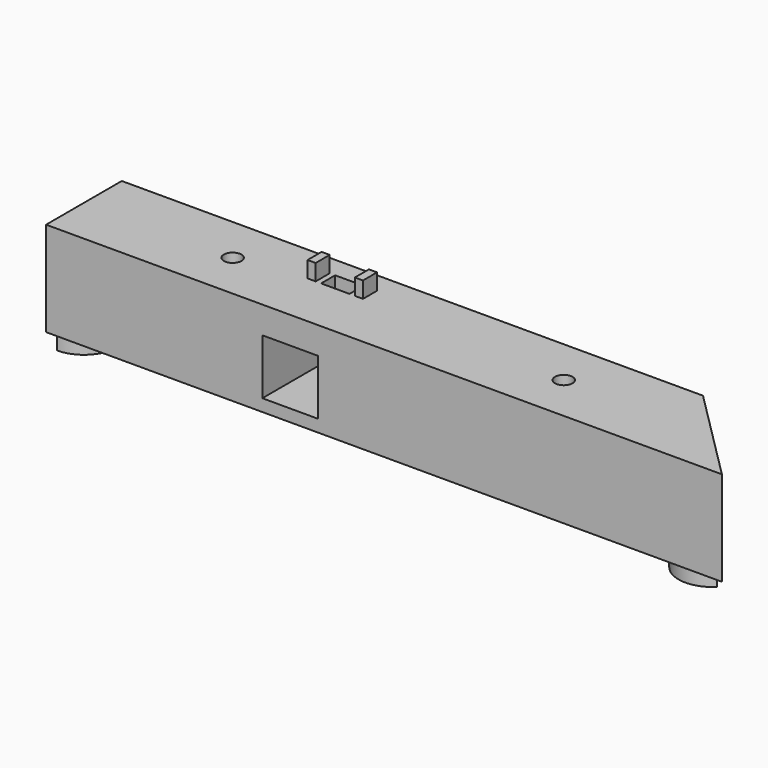
from build123d import *

# Parameters (mm, degrees)
F1_DEPTH  = 35
F2_W      = 24
F2_H      = 24
F3_DEPTH  = 25.5
F5_D      = 6.5
F5_DEPTH  = 35
F5_TIP    = 1.9527970118
F7_DEPTH  = 8
F9_DEPTH  = 8
F10_W     = 20.5
F10_H     = 20.5
F11_DEPTH = 100
F12_W     = 10.5
F12_H     = 6.5
F13_DEPTH = 34
F12_W_2   = 3
F14_DEPTH = 6


with BuildPart() as f1:
    # F0 (on Top) → F1 (new body)
    with BuildSketch(Plane.XY):
        Polygon((-125, -17.5), (125, -17.5), (90, 17.5), (-125, 17.5), align=None)
    extrude(amount=F1_DEPTH)

    # F2 (on face) → F3 (cut)
    with BuildSketch(Plane(origin=(-125, 0, 0), x_dir=(0, -1, 0), z_dir=(-1, 0, 0))):
        with Locations((0, 17.5)):
            Rectangle(F2_W, F2_H)
    extrude(amount=-F3_DEPTH, mode=Mode.SUBTRACT)

    # F5
    with Locations(Plane.XY.offset(35)):
        with Locations((52.5, 0), (-70, 0)):
            Hole(F5_D / 2, depth=F5_DEPTH)
            with Locations((0, 0, -(F5_DEPTH + F5_TIP / 2))):  # 118° drill point
                Cone(0, F5_D / 2, F5_TIP, mode=Mode.SUBTRACT)

    # F6 (on face) → F7 (join)
    with BuildSketch(Plane(origin=(0, 0, 0), x_dir=(1, 0, 0), z_dir=(0, 0, -1))):
        with BuildLine():
            Line((98.6611652352, -8.8388347648), (116.3388347648, 8.8388347648))
            ThreePointArc((116.3388347648, 8.8388347648), (98.6611652352, 8.8388347648), (98.6611652352, -8.8388347648))
        make_face()
    extrude(amount=F7_DEPTH)

    # F8 (on face) → F9 (join)
    with BuildSketch(Plane(origin=(0, 0, 0), x_dir=(1, 0, 0), z_dir=(0, 0, -1))):
        with BuildLine():
            ThreePointArc((-125, -12.5), (-116.1611652352, -8.8388347648), (-112.5, 0))
            ThreePointArc((-112.5, 0), (-116.1611652352, 8.8388347648), (-125, 12.5))
            Line((-125, 12.5), (-125, -12.5))
        make_face()
    extrude(amount=F9_DEPTH)

    # F10 (on face) → F11 (cut)
    with BuildSketch(Plane(origin=(0, 17.5, 0), x_dir=(-1, 0, 0), z_dir=(0, 1, 0))):
        with Locations((34.75, 14.75)):
            Rectangle(F10_W, F10_H)
    extrude(amount=-F11_DEPTH, mode=Mode.SUBTRACT)

    # F12 (on face) → F13 (cut)
    with BuildSketch(Plane.XY.offset(35)):
        with Locations((-34.768, 6.678)):
            Rectangle(F12_W, F12_H)
    extrude(amount=-F13_DEPTH, mode=Mode.SUBTRACT)

    # F12 (on face) → F14 (join)
    with BuildSketch(Plane.XY.offset(35)):
        with Locations((-43.518, 6.678)):
            Rectangle(F12_W_2, F12_H)
        with Locations((-26.018, 6.678)):
            Rectangle(F12_W_2, F12_H)
    extrude(amount=F14_DEPTH)


solid = f1.part
